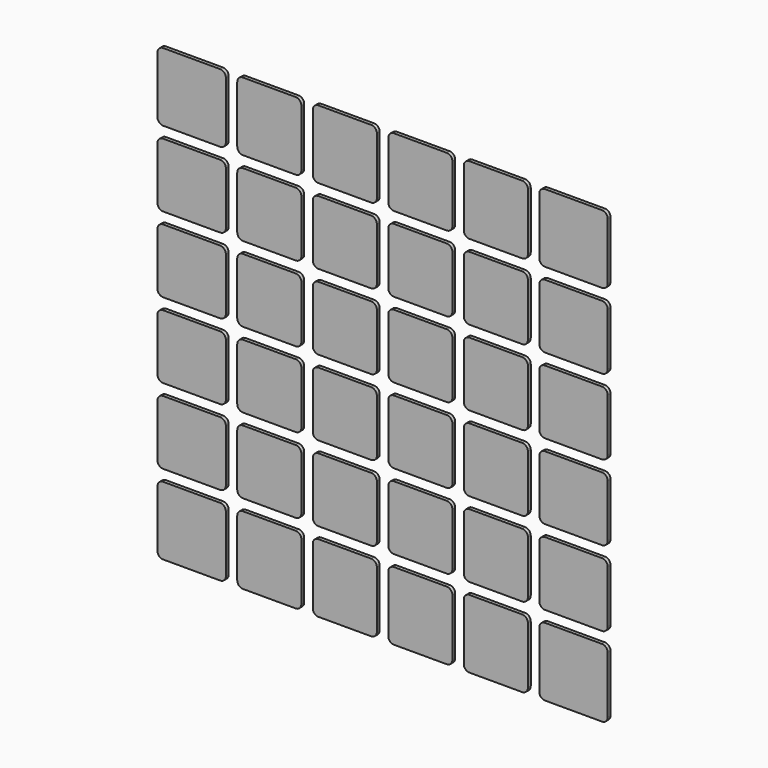
from build123d import *

# Parameters (mm, degrees)
F1_DEPTH = 0.5


with BuildPart() as f1:
    # F0 (on Front) → F1 (new body)
    with BuildSketch(Plane.XZ):
        with BuildLine():
            ThreePointArc((0, 0.8), (0.234315, 0.234315), (0.8, 0))
            Line((0.8, 0), (8.2, 0))
            ThreePointArc((8.2, 0), (8.765685, 0.234315), (9, 0.8))
            Line((9, 0.8), (9, 8.2))
            ThreePointArc((9, 8.2), (8.765685, 8.765685), (8.2, 9))
            Line((8.2, 9), (0.8, 9))
            ThreePointArc((0.8, 9), (0.234315, 8.765685), (0, 8.2))
            Line((0, 8.2), (0, 0.8))
        make_face()
        with BuildLine():
            ThreePointArc((8.2, 10.6), (8.765685, 10.834315), (9, 11.4))
            Line((9, 11.4), (9, 18.8))
            ThreePointArc((9, 18.8), (8.765685, 19.365685), (8.2, 19.6))
            Line((8.2, 19.6), (0.8, 19.6))
            ThreePointArc((0.8, 19.6), (0.234315, 19.365685), (0, 18.8))
            Line((0, 18.8), (0, 11.4))
            ThreePointArc((0, 11.4), (0.234315, 10.834315), (0.8, 10.6))
            Line((0.8, 10.6), (8.2, 10.6))
        make_face()
        with BuildLine():
            ThreePointArc((8.2, 21.2), (8.765685, 21.434315), (9, 22))
            Line((9, 22), (9, 29.4))
            ThreePointArc((9, 29.4), (8.765685, 29.965685), (8.2, 30.2))
            Line((8.2, 30.2), (0.8, 30.2))
            ThreePointArc((0.8, 30.2), (0.234315, 29.965685), (0, 29.4))
            Line((0, 29.4), (0, 22))
            ThreePointArc((0, 22), (0.234315, 21.434315), (0.8, 21.2))
            Line((0.8, 21.2), (8.2, 21.2))
        make_face()
        with BuildLine():
            ThreePointArc((8.2, 31.8), (8.765685, 32.034315), (9, 32.6))
            Line((9, 32.6), (9, 40))
            ThreePointArc((9, 40), (8.765685, 40.565685), (8.2, 40.8))
            Line((8.2, 40.8), (0.8, 40.8))
            ThreePointArc((0.8, 40.8), (0.234315, 40.565685), (0, 40))
            Line((0, 40), (0, 32.6))
            ThreePointArc((0, 32.6), (0.234315, 32.034315), (0.8, 31.8))
            Line((0.8, 31.8), (8.2, 31.8))
        make_face()
        with BuildLine():
            ThreePointArc((18.8, 0), (19.365685, 0.234315), (19.6, 0.8))
            Line((19.6, 0.8), (19.6, 8.2))
            ThreePointArc((19.6, 8.2), (19.365685, 8.765685), (18.8, 9))
            Line((18.8, 9), (11.4, 9))
            ThreePointArc((11.4, 9), (10.834315, 8.765685), (10.6, 8.2))
            Line((10.6, 8.2), (10.6, 0.8))
            ThreePointArc((10.6, 0.8), (10.834315, 0.234315), (11.4, 0))
            Line((11.4, 0), (18.8, 0))
        make_face()
        with BuildLine():
            ThreePointArc((18.8, 10.6), (19.365685, 10.834315), (19.6, 11.4))
            Line((19.6, 11.4), (19.6, 18.8))
            ThreePointArc((19.6, 18.8), (19.365685, 19.365685), (18.8, 19.6))
            Line((18.8, 19.6), (11.4, 19.6))
            ThreePointArc((11.4, 19.6), (10.834315, 19.365685), (10.6, 18.8))
            Line((10.6, 18.8), (10.6, 11.4))
            ThreePointArc((10.6, 11.4), (10.834315, 10.834315), (11.4, 10.6))
            Line((11.4, 10.6), (18.8, 10.6))
        make_face()
        with BuildLine():
            ThreePointArc((18.8, 21.2), (19.365685, 21.434315), (19.6, 22))
            Line((19.6, 22), (19.6, 29.4))
            ThreePointArc((19.6, 29.4), (19.365685, 29.965685), (18.8, 30.2))
            Line((18.8, 30.2), (11.4, 30.2))
            ThreePointArc((11.4, 30.2), (10.834315, 29.965685), (10.6, 29.4))
            Line((10.6, 29.4), (10.6, 22))
            ThreePointArc((10.6, 22), (10.834315, 21.434315), (11.4, 21.2))
            Line((11.4, 21.2), (18.8, 21.2))
        make_face()
        with BuildLine():
            ThreePointArc((18.8, 31.8), (19.365685, 32.034315), (19.6, 32.6))
            Line((19.6, 32.6), (19.6, 40))
            ThreePointArc((19.6, 40), (19.365685, 40.565685), (18.8, 40.8))
            Line((18.8, 40.8), (11.4, 40.8))
            ThreePointArc((11.4, 40.8), (10.834315, 40.565685), (10.6, 40))
            Line((10.6, 40), (10.6, 32.6))
            ThreePointArc((10.6, 32.6), (10.834315, 32.034315), (11.4, 31.8))
            Line((11.4, 31.8), (18.8, 31.8))
        make_face()
        with BuildLine():
            ThreePointArc((29.4, 0), (29.965685, 0.234315), (30.2, 0.8))
            Line((30.2, 0.8), (30.2, 8.2))
            ThreePointArc((30.2, 8.2), (29.965685, 8.765685), (29.4, 9))
            Line((29.4, 9), (22, 9))
            ThreePointArc((22, 9), (21.434315, 8.765685), (21.2, 8.2))
            Line((21.2, 8.2), (21.2, 0.8))
            ThreePointArc((21.2, 0.8), (21.434315, 0.234315), (22, 0))
            Line((22, 0), (29.4, 0))
        make_face()
        with BuildLine():
            ThreePointArc((29.4, 10.6), (29.965685, 10.834315), (30.2, 11.4))
            Line((30.2, 11.4), (30.2, 18.8))
            ThreePointArc((30.2, 18.8), (29.965685, 19.365685), (29.4, 19.6))
            Line((29.4, 19.6), (22, 19.6))
            ThreePointArc((22, 19.6), (21.434315, 19.365685), (21.2, 18.8))
            Line((21.2, 18.8), (21.2, 11.4))
            ThreePointArc((21.2, 11.4), (21.434315, 10.834315), (22, 10.6))
            Line((22, 10.6), (29.4, 10.6))
        make_face()
        with BuildLine():
            ThreePointArc((29.4, 21.2), (29.965685, 21.434315), (30.2, 22))
            Line((30.2, 22), (30.2, 29.4))
            ThreePointArc((30.2, 29.4), (29.965685, 29.965685), (29.4, 30.2))
            Line((29.4, 30.2), (22, 30.2))
            ThreePointArc((22, 30.2), (21.434315, 29.965685), (21.2, 29.4))
            Line((21.2, 29.4), (21.2, 22))
            ThreePointArc((21.2, 22), (21.434315, 21.434315), (22, 21.2))
            Line((22, 21.2), (29.4, 21.2))
        make_face()
        with BuildLine():
            ThreePointArc((29.4, 31.8), (29.965685, 32.034315), (30.2, 32.6))
            Line((30.2, 32.6), (30.2, 40))
            ThreePointArc((30.2, 40), (29.965685, 40.565685), (29.4, 40.8))
            Line((29.4, 40.8), (22, 40.8))
            ThreePointArc((22, 40.8), (21.434315, 40.565685), (21.2, 40))
            Line((21.2, 40), (21.2, 32.6))
            ThreePointArc((21.2, 32.6), (21.434315, 32.034315), (22, 31.8))
            Line((22, 31.8), (29.4, 31.8))
        make_face()
        with BuildLine():
            ThreePointArc((40, 0), (40.565685, 0.234315), (40.8, 0.8))
            Line((40.8, 0.8), (40.8, 8.2))
            ThreePointArc((40.8, 8.2), (40.565685, 8.765685), (40, 9))
            Line((40, 9), (32.6, 9))
            ThreePointArc((32.6, 9), (32.034315, 8.765685), (31.8, 8.2))
            Line((31.8, 8.2), (31.8, 0.8))
            ThreePointArc((31.8, 0.8), (32.034315, 0.234315), (32.6, 0))
            Line((32.6, 0), (40, 0))
        make_face()
        with BuildLine():
            ThreePointArc((40, 10.6), (40.565685, 10.834315), (40.8, 11.4))
            Line((40.8, 11.4), (40.8, 18.8))
            ThreePointArc((40.8, 18.8), (40.565685, 19.365685), (40, 19.6))
            Line((40, 19.6), (32.6, 19.6))
            ThreePointArc((32.6, 19.6), (32.034315, 19.365685), (31.8, 18.8))
            Line((31.8, 18.8), (31.8, 11.4))
            ThreePointArc((31.8, 11.4), (32.034315, 10.834315), (32.6, 10.6))
            Line((32.6, 10.6), (40, 10.6))
        make_face()
        with BuildLine():
            ThreePointArc((40, 21.2), (40.565685, 21.434315), (40.8, 22))
            Line((40.8, 22), (40.8, 29.4))
            ThreePointArc((40.8, 29.4), (40.565685, 29.965685), (40, 30.2))
            Line((40, 30.2), (32.6, 30.2))
            ThreePointArc((32.6, 30.2), (32.034315, 29.965685), (31.8, 29.4))
            Line((31.8, 29.4), (31.8, 22))
            ThreePointArc((31.8, 22), (32.034315, 21.434315), (32.6, 21.2))
            Line((32.6, 21.2), (40, 21.2))
        make_face()
        with BuildLine():
            ThreePointArc((40, 31.8), (40.565685, 32.034315), (40.8, 32.6))
            Line((40.8, 32.6), (40.8, 40))
            ThreePointArc((40.8, 40), (40.565685, 40.565685), (40, 40.8))
            Line((40, 40.8), (32.6, 40.8))
            ThreePointArc((32.6, 40.8), (32.034315, 40.565685), (31.8, 40))
            Line((31.8, 40), (31.8, 32.6))
            ThreePointArc((31.8, 32.6), (32.034315, 32.034315), (32.6, 31.8))
            Line((32.6, 31.8), (40, 31.8))
        make_face()
        with BuildLine():
            Line((-10.4, 0), (-2.4, 0))
            ThreePointArc((-2.4, 0), (-1.834315, 0.234315), (-1.6, 0.8))
            Line((-1.6, 0.8), (-1.6, 8.2))
            ThreePointArc((-1.6, 8.2), (-1.834315, 8.765685), (-2.4, 9))
            Line((-2.4, 9), (-10.4, 9))
            ThreePointArc((-10.4, 9), (-10.965685, 8.765685), (-11.2, 8.2))
            Line((-11.2, 8.2), (-11.2, 0.8))
            ThreePointArc((-11.2, 0.8), (-10.965685, 0.234315), (-10.4, 0))
        make_face()
        with BuildLine():
            Line((-10.4, 10.6), (-2.4, 10.6))
            ThreePointArc((-2.4, 10.6), (-1.834315, 10.834315), (-1.6, 11.4))
            Line((-1.6, 11.4), (-1.6, 18.8))
            ThreePointArc((-1.6, 18.8), (-1.834315, 19.365685), (-2.4, 19.6))
            Line((-2.4, 19.6), (-10.4, 19.6))
            ThreePointArc((-10.4, 19.6), (-10.965685, 19.365685), (-11.2, 18.8))
            Line((-11.2, 18.8), (-11.2, 11.4))
            ThreePointArc((-11.2, 11.4), (-10.965685, 10.834315), (-10.4, 10.6))
        make_face()
        with BuildLine():
            Line((-10.4, 21.2), (-2.4, 21.2))
            ThreePointArc((-2.4, 21.2), (-1.834315, 21.434315), (-1.6, 22))
            Line((-1.6, 22), (-1.6, 29.4))
            ThreePointArc((-1.6, 29.4), (-1.834315, 29.965685), (-2.4, 30.2))
            Line((-2.4, 30.2), (-10.4, 30.2))
            ThreePointArc((-10.4, 30.2), (-10.965685, 29.965685), (-11.2, 29.4))
            Line((-11.2, 29.4), (-11.2, 22))
            ThreePointArc((-11.2, 22), (-10.965685, 21.434315), (-10.4, 21.2))
        make_face()
        with BuildLine():
            Line((-10.4, 31.8), (-2.4, 31.8))
            ThreePointArc((-2.4, 31.8), (-1.834315, 32.034315), (-1.6, 32.6))
            Line((-1.6, 32.6), (-1.6, 40))
            ThreePointArc((-1.6, 40), (-1.834315, 40.565685), (-2.4, 40.8))
            Line((-2.4, 40.8), (-10.4, 40.8))
            ThreePointArc((-10.4, 40.8), (-10.965685, 40.565685), (-11.2, 40))
            Line((-11.2, 40), (-11.2, 32.6))
            ThreePointArc((-11.2, 32.6), (-10.965685, 32.034315), (-10.4, 31.8))
        make_face()
        with BuildLine():
            Line((-10.4, 42.4), (-2.4, 42.4))
            ThreePointArc((-2.4, 42.4), (-1.834315, 42.634315), (-1.6, 43.2))
            Line((-1.6, 43.2), (-1.6, 51.2))
            ThreePointArc((-1.6, 51.2), (-1.834315, 51.765685), (-2.4, 52))
            Line((-2.4, 52), (-10.4, 52))
            ThreePointArc((-10.4, 52), (-10.965685, 51.765685), (-11.2, 51.2))
            Line((-11.2, 51.2), (-11.2, 43.2))
            ThreePointArc((-11.2, 43.2), (-10.965685, 42.634315), (-10.4, 42.4))
        make_face()
        with BuildLine():
            Line((11.4, -11.2), (18.8, -11.2))
            ThreePointArc((18.8, -11.2), (19.365685, -10.965685), (19.6, -10.4))
            Line((19.6, -10.4), (19.6, -2.4))
            ThreePointArc((19.6, -2.4), (19.365685, -1.834315), (18.8, -1.6))
            Line((18.8, -1.6), (11.4, -1.6))
            ThreePointArc((11.4, -1.6), (10.834315, -1.834315), (10.6, -2.4))
            Line((10.6, -2.4), (10.6, -10.4))
            ThreePointArc((10.6, -10.4), (10.834315, -10.965685), (11.4, -11.2))
        make_face()
        with BuildLine():
            Line((0.8, -11.2), (8.2, -11.2))
            ThreePointArc((8.2, -11.2), (8.765685, -10.965685), (9, -10.4))
            Line((9, -10.4), (9, -2.4))
            ThreePointArc((9, -2.4), (8.765685, -1.834315), (8.2, -1.6))
            Line((8.2, -1.6), (0.8, -1.6))
            ThreePointArc((0.8, -1.6), (0.234315, -1.834315), (0, -2.4))
            Line((0, -2.4), (0, -10.4))
            ThreePointArc((0, -10.4), (0.234315, -10.965685), (0.8, -11.2))
        make_face()
        with BuildLine():
            ThreePointArc((22, -1.6), (21.434315, -1.834315), (21.2, -2.4))
            Line((21.2, -2.4), (21.2, -10.4))
            ThreePointArc((21.2, -10.4), (21.434315, -10.965685), (22, -11.2))
            Line((22, -11.2), (29.4, -11.2))
            ThreePointArc((29.4, -11.2), (29.965685, -10.965685), (30.2, -10.4))
            Line((30.2, -10.4), (30.2, -2.4))
            ThreePointArc((30.2, -2.4), (29.965685, -1.834315), (29.4, -1.6))
            Line((29.4, -1.6), (22, -1.6))
        make_face()
        with BuildLine():
            Line((-1.6, -10.4), (-1.6, -2.4))
            ThreePointArc((-1.6, -2.4), (-1.834315, -1.834315), (-2.4, -1.6))
            Line((-2.4, -1.6), (-10.4, -1.6))
            ThreePointArc((-10.4, -1.6), (-10.965685, -1.834315), (-11.2, -2.4))
            Line((-11.2, -2.4), (-11.2, -10.4))
            ThreePointArc((-11.2, -10.4), (-10.965685, -10.965685), (-10.4, -11.2))
            Line((-10.4, -11.2), (-2.4, -11.2))
            ThreePointArc((-2.4, -11.2), (-1.834315, -10.965685), (-1.6, -10.4))
        make_face()
        with BuildLine():
            Line((40.8, -10.4), (40.8, -2.4))
            ThreePointArc((40.8, -2.4), (40.565685, -1.834315), (40, -1.6))
            Line((40, -1.6), (32.6, -1.6))
            ThreePointArc((32.6, -1.6), (32.034315, -1.834315), (31.8, -2.4))
            Line((31.8, -2.4), (31.8, -10.4))
            ThreePointArc((31.8, -10.4), (32.034315, -10.965685), (32.6, -11.2))
            Line((32.6, -11.2), (40, -11.2))
            ThreePointArc((40, -11.2), (40.565685, -10.965685), (40.8, -10.4))
        make_face()
        with BuildLine():
            Line((52, 11.4), (52, 18.8))
            ThreePointArc((52, 18.8), (51.765685, 19.365685), (51.2, 19.6))
            Line((51.2, 19.6), (43.2, 19.6))
            ThreePointArc((43.2, 19.6), (42.634315, 19.365685), (42.4, 18.8))
            Line((42.4, 18.8), (42.4, 11.4))
            ThreePointArc((42.4, 11.4), (42.634315, 10.834315), (43.2, 10.6))
            Line((43.2, 10.6), (51.2, 10.6))
            ThreePointArc((51.2, 10.6), (51.765685, 10.834315), (52, 11.4))
        make_face()
        with BuildLine():
            Line((52, 0.8), (52, 8.2))
            ThreePointArc((52, 8.2), (51.765685, 8.765685), (51.2, 9))
            Line((51.2, 9), (43.2, 9))
            ThreePointArc((43.2, 9), (42.634315, 8.765685), (42.4, 8.2))
            Line((42.4, 8.2), (42.4, 0.8))
            ThreePointArc((42.4, 0.8), (42.634315, 0.234315), (43.2, 0))
            Line((43.2, 0), (51.2, 0))
            ThreePointArc((51.2, 0), (51.765685, 0.234315), (52, 0.8))
        make_face()
        with BuildLine():
            ThreePointArc((42.4, 22), (42.634315, 21.434315), (43.2, 21.2))
            Line((43.2, 21.2), (51.2, 21.2))
            ThreePointArc((51.2, 21.2), (51.765685, 21.434315), (52, 22))
            Line((52, 22), (52, 29.4))
            ThreePointArc((52, 29.4), (51.765685, 29.965685), (51.2, 30.2))
            Line((51.2, 30.2), (43.2, 30.2))
            ThreePointArc((43.2, 30.2), (42.634315, 29.965685), (42.4, 29.4))
            Line((42.4, 29.4), (42.4, 22))
        make_face()
        with BuildLine():
            Line((51.2, -1.6), (43.2, -1.6))
            ThreePointArc((43.2, -1.6), (42.634315, -1.834315), (42.4, -2.4))
            Line((42.4, -2.4), (42.4, -10.4))
            ThreePointArc((42.4, -10.4), (42.634315, -10.965685), (43.2, -11.2))
            Line((43.2, -11.2), (51.2, -11.2))
            ThreePointArc((51.2, -11.2), (51.765685, -10.965685), (52, -10.4))
            Line((52, -10.4), (52, -2.4))
            ThreePointArc((52, -2.4), (51.765685, -1.834315), (51.2, -1.6))
        make_face()
        with BuildLine():
            Line((51.2, 40.8), (43.2, 40.8))
            ThreePointArc((43.2, 40.8), (42.634315, 40.565685), (42.4, 40))
            Line((42.4, 40), (42.4, 32.6))
            ThreePointArc((42.4, 32.6), (42.634315, 32.034315), (43.2, 31.8))
            Line((43.2, 31.8), (51.2, 31.8))
            ThreePointArc((51.2, 31.8), (51.765685, 32.034315), (52, 32.6))
            Line((52, 32.6), (52, 40))
            ThreePointArc((52, 40), (51.765685, 40.565685), (51.2, 40.8))
        make_face()
        with BuildLine():
            Line((29.4, 52), (22, 52))
            ThreePointArc((22, 52), (21.434315, 51.765685), (21.2, 51.2))
            Line((21.2, 51.2), (21.2, 43.2))
            ThreePointArc((21.2, 43.2), (21.434315, 42.634315), (22, 42.4))
            Line((22, 42.4), (29.4, 42.4))
            ThreePointArc((29.4, 42.4), (29.965685, 42.634315), (30.2, 43.2))
            Line((30.2, 43.2), (30.2, 51.2))
            ThreePointArc((30.2, 51.2), (29.965685, 51.765685), (29.4, 52))
        make_face()
        with BuildLine():
            Line((40, 52), (32.6, 52))
            ThreePointArc((32.6, 52), (32.034315, 51.765685), (31.8, 51.2))
            Line((31.8, 51.2), (31.8, 43.2))
            ThreePointArc((31.8, 43.2), (32.034315, 42.634315), (32.6, 42.4))
            Line((32.6, 42.4), (40, 42.4))
            ThreePointArc((40, 42.4), (40.565685, 42.634315), (40.8, 43.2))
            Line((40.8, 43.2), (40.8, 51.2))
            ThreePointArc((40.8, 51.2), (40.565685, 51.765685), (40, 52))
        make_face()
        with BuildLine():
            ThreePointArc((18.8, 42.4), (19.365685, 42.634315), (19.6, 43.2))
            Line((19.6, 43.2), (19.6, 51.2))
            ThreePointArc((19.6, 51.2), (19.365685, 51.765685), (18.8, 52))
            Line((18.8, 52), (11.4, 52))
            ThreePointArc((11.4, 52), (10.834315, 51.765685), (10.6, 51.2))
            Line((10.6, 51.2), (10.6, 43.2))
            ThreePointArc((10.6, 43.2), (10.834315, 42.634315), (11.4, 42.4))
            Line((11.4, 42.4), (18.8, 42.4))
        make_face()
        with BuildLine():
            Line((42.4, 51.2), (42.4, 43.2))
            ThreePointArc((42.4, 43.2), (42.634315, 42.634315), (43.2, 42.4))
            Line((43.2, 42.4), (51.2, 42.4))
            ThreePointArc((51.2, 42.4), (51.765685, 42.634315), (52, 43.2))
            Line((52, 43.2), (52, 51.2))
            ThreePointArc((52, 51.2), (51.765685, 51.765685), (51.2, 52))
            Line((51.2, 52), (43.2, 52))
            ThreePointArc((43.2, 52), (42.634315, 51.765685), (42.4, 51.2))
        make_face()
        with BuildLine():
            Line((0, 51.2), (0, 43.2))
            ThreePointArc((0, 43.2), (0.234315, 42.634315), (0.8, 42.4))
            Line((0.8, 42.4), (8.2, 42.4))
            ThreePointArc((8.2, 42.4), (8.765685, 42.634315), (9, 43.2))
            Line((9, 43.2), (9, 51.2))
            ThreePointArc((9, 51.2), (8.765685, 51.765685), (8.2, 52))
            Line((8.2, 52), (0.8, 52))
            ThreePointArc((0.8, 52), (0.234315, 51.765685), (0, 51.2))
        make_face()
    extrude(amount=F1_DEPTH)


solid = f1.part
